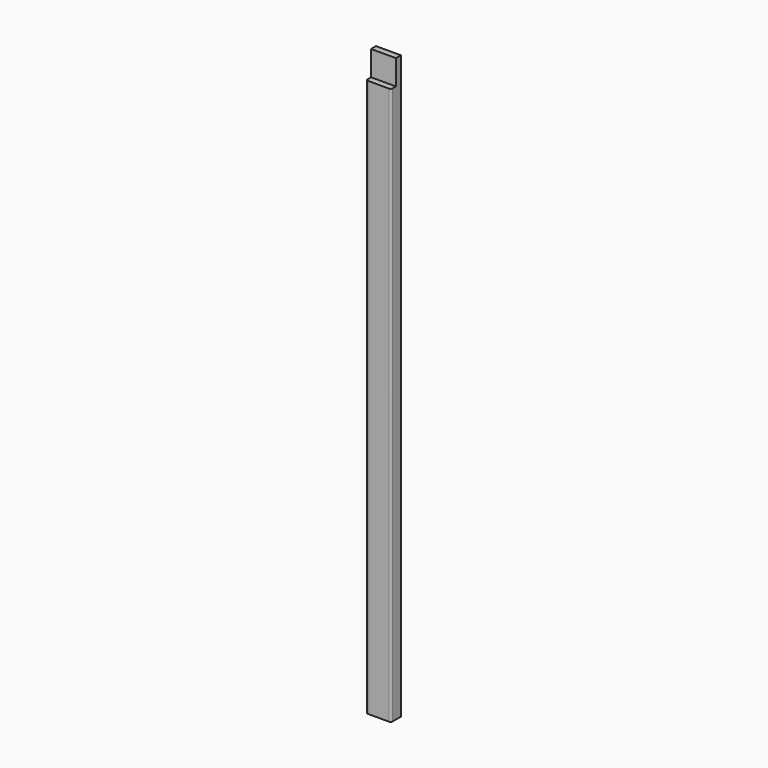
from build123d import *

# Parameters (mm, degrees)
F0_W     = 38.1
F0_H     = 890.5875
F1_DEPTH = 19.05
F2_W     = 38.1
F2_H     = 38.1
F3_DEPTH = 9.525
F4_R     = 3.175


with BuildPart() as f1:
    # F0 (on Front) → F1 (new body)
    with BuildSketch(Plane.XZ):
        Rectangle(F0_W, F0_H)
    extrude(amount=F1_DEPTH)

    # F2 (on face) → F3 (cut)
    with BuildSketch(Plane.XZ.offset(19.05)):
        with Locations((0, 426.24375)):
            Rectangle(F2_W, F2_H)
    extrude(amount=-F3_DEPTH, mode=Mode.SUBTRACT)

    # F4
    f4_edges = [f1.edges().sort_by_distance(p)[0] for p in [
        (-19.05, -19.05, -19.05),
        (19.05, -19.05, -19.05),
    ]]
    fillet(f4_edges, radius=F4_R)


solid = f1.part
